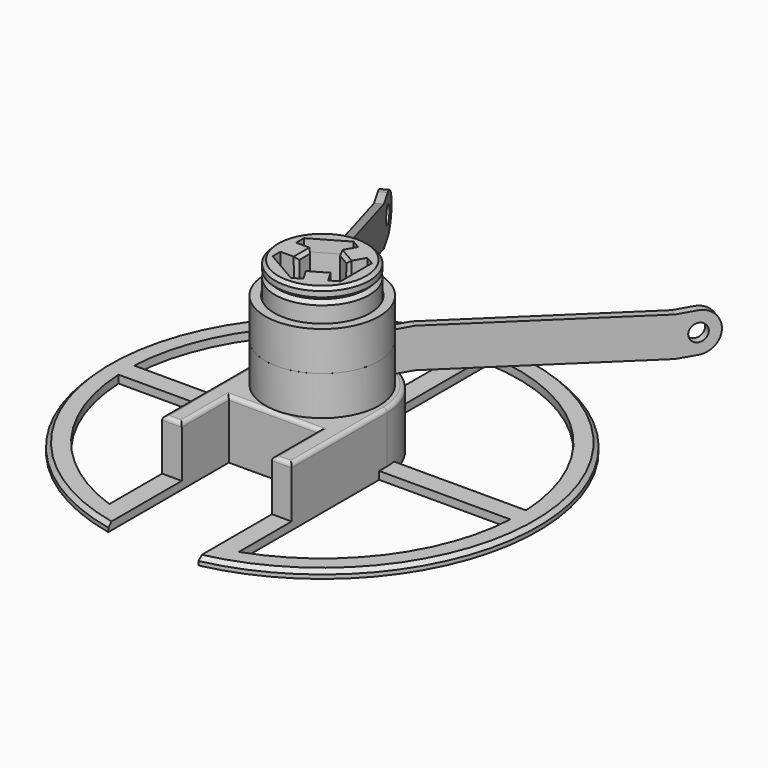
from build123d import *

# Parameters (mm, degrees)
PAD_DEPTH          = 15
SKETCH002_R        = 12
PAD001_DEPTH       = 25
POCKET_DEPTH       = 40.001
SKETCH004_R        = 2
POCKET001_DEPTH    = 10
PAD006_DEPTH       = 2
POCKET002_DEPTH    = 5
CHAMFER_SIZE       = 1
FILLET_R           = 1
CHAMFER005_SIZE    = 1
SKETCH005_R        = 14.5
SKETCH005_R_2      = 12.2
PAD002_DEPTH       = 10
SKETCH006_R        = 2.2
PAD003_DEPTH       = 1
CHAMFER002_SIZE    = 1
SKETCH007_R        = 14.5
SKETCH007_R_2      = 12.2
PAD005_DEPTH       = 10
SKETCH008_R        = 2.2
PAD004_DEPTH       = 1
CHAMFER004_SIZE    = 1
PAD007_DEPTH       = 2.5
SKETCH014_R        = 12
PAD008_DEPTH       = 3
POLARPATTERN_COUNT = 3
CHAMFER006_SIZE    = 0.8
CHAMFER007_SIZE    = 0.8


with BuildPart() as main_holder:
    # Sketch → Pad (new body)
    with BuildSketch(Plane.XY):
        with BuildLine():
            Line((-16.5, -30.3923048454), (-11.5, -30.3923048454))
            Line((-11.5, -30.3923048454), (-11.5, -15.3923048454))
            Line((-11.5, -15.3923048454), (11.5, -15.3923048454))
            Line((11.5, -15.3923048454), (11.5, -30.3923048454))
            Line((11.5, -30.3923048454), (16.5, -30.3923048454))
            Line((16.5, -30.3923048454), (16.5, 0))
            ThreePointArc((16.5, 0), (0, 16.5), (-16.5, 0))
            Line((-16.5, -30.3923048454), (-16.5, 0))
        make_face()
    extrude(amount=PAD_DEPTH)

    # Sketch002 (on Face10 of Pad) → Pad001 (join)
    with BuildSketch(Plane.XY.offset(15)):
        Circle(SKETCH002_R)
    extrude(amount=PAD001_DEPTH)

    # Sketch003 (on Face12 of Pad001) → Pocket (cut, through all)
    with BuildSketch(Plane.XY.offset(40)):
        Polygon((0, -10), (8.6602540378, -5), (8.6602540378, 5), (0, 10), (-8.6602540378, 5), (-8.6602540378, -5), align=None)
    extrude(amount=-POCKET_DEPTH, mode=Mode.SUBTRACT)

    # Sketch004 (on DatumPlane) → Pocket001 (cut)
    with BuildSketch(Plane(origin=(0, 12.6076951546, -5), x_dir=(1, 0, 0), z_dir=(0, -1, 0))):
        with Locations((0, 12.5)):
            Circle(SKETCH004_R)
    extrude(amount=-POCKET001_DEPTH, mode=Mode.SUBTRACT)

    # Sketch009 → Pad006 (join)
    with BuildSketch(Plane.XY):
        with BuildLine():
            ThreePointArc((11.5, -53.784291387), (0, 55), (-11.5, -53.784291387))
            Line((-11.5, -30.3923048454), (-11.5, -53.784291387))
            Line((-16.5, -30.3923048454), (-11.5, -30.3923048454))
            Line((-16.5, -30.3923048454), (-16.5, -47.1990466005))
            ThreePointArc((-49.9374608886, -2.5), (-40.0372981616, -29.9502046056), (-16.5, -47.1990466005))
            Line((-16.5, -2.5), (-49.9374608886, -2.5))
            Line((-16.5, -2.5), (-16.5, 0))
            ThreePointArc((-16.3095064303, 2.5), (-16.4523076816, 1.253623528), (-16.5, 0))
            Line((-16.3095064303, 2.5), (-49.9374608886, 2.5))
            ThreePointArc((-2.5, 49.9374608886), (-35.3553390593, 35.3553390593), (-49.9374608886, 2.5))
            Line((-2.5, 16.3095064303), (-2.5, 49.9374608886))
            ThreePointArc((2.5, 16.3095064303), (0, 16.5), (-2.5, 16.3095064303))
            Line((2.5, 16.3095064303), (2.5, 49.9374608886))
            ThreePointArc((49.9374608886, 2.5), (35.3553390593, 35.3553390593), (2.5, 49.9374608886))
            Line((16.3095064303, 2.5), (49.9374608886, 2.5))
            ThreePointArc((16.5, 0), (16.4523076816, 1.253623528), (16.3095064303, 2.5))
            Line((16.5, -2.5), (16.5, 0))
            Line((16.5, -2.5), (49.9374608886, -2.5))
            ThreePointArc((16.5, -47.1990466005), (40.0372981616, -29.9502046056), (49.9374608886, -2.5))
            Line((16.5, -30.3923048454), (16.5, -47.1990466005))
            Line((11.5, -30.3923048454), (16.5, -30.3923048454))
            Line((11.5, -30.3923048454), (11.5, -53.784291387))
        make_face()
    extrude(amount=PAD006_DEPTH)

    # Sketch010 (on DatumPlane) → Pocket002 (cut)
    with BuildSketch(Plane(origin=(0, 12.6076951546, -5), x_dir=(1, 0, 0), z_dir=(0, -1, 0))):
        Polygon((0, 8.3430780618), (3.6, 10.4215390309), (3.6, 14.5784609691), (0, 16.6569219382), (-3.6, 14.5784609691), (-3.6, 10.4215390309), align=None)
    extrude(amount=POCKET002_DEPTH, mode=Mode.SUBTRACT)

    # Chamfer
    chamfer_edges = [main_holder.edges().sort_by_distance(p)[0] for p in [
        (-12, 0, 40),
    ]]
    chamfer(chamfer_edges, length=CHAMFER_SIZE)

    # Fillet
    fillet_edges = [main_holder.edges().sort_by_distance(p)[0] for p in [
        (-14, -30.392305, 15),
        (-16.5, -15.196152, 15),
        (-11.5, -22.892305, 15),
        (0, 16.5, 15),
        (0, -15.392305, 15),
        (16.5, -15.196152, 15),
        (11.5, -22.892305, 15),
        (14, -30.392305, 15),
        (-12, 0, 15),
    ]]
    fillet(fillet_edges, radius=FILLET_R)

    # Chamfer005
    chamfer005_edges = [main_holder.edges().sort_by_distance(p)[0] for p in [
        (0, 55, 2),
    ]]
    chamfer(chamfer005_edges, length=CHAMFER005_SIZE)


with BuildPart() as arm1:
    # Sketch005 → Pad002 (new body)
    with BuildSketch(Plane(origin=(0, 0, 13), x_dir=(0.5, 0.8660254038, 0), z_dir=(0, 0, 1))):
        Circle(SKETCH005_R)
        Circle(SKETCH005_R_2, mode=Mode.SUBTRACT)
    extrude(amount=PAD002_DEPTH)

    # Sketch006 (on DatumPlane) → Pad003 (join, symmetric)
    with BuildSketch(Plane(origin=(0, 0, 13), x_dir=(0.5, 0.8660254038, 0), z_dir=(0.8660254038, -0.5, 0))):
        with BuildLine():
            Line((14.5, 0), (19.5, 0))
            Line((19.5, 0), (75, -8))
            Line((80, -8), (75, -8))
            ThreePointArc((80, -8), (85, -3), (80, 2))
            Line((75, 2), (80, 2))
            Line((19.5, 10), (75, 2))
            Line((14.5, 10), (19.5, 10))
            Line((14.5, 10), (13.5, 10))
            Line((13.5, 10), (13.5, 0))
            Line((13.5, 0), (14.5, 0))
        make_face()
        with Locations((80, -3)):
            Circle(SKETCH006_R, mode=Mode.SUBTRACT)
    extrude(amount=PAD003_DEPTH, both=True)

    # Chamfer002
    chamfer002_edges = [arm1.edges().sort_by_distance(p)[0] for p in [
        (-6.1, -10.56551, 13),
        (6.1, 10.56551, 18),
    ]]
    chamfer(chamfer002_edges, length=CHAMFER002_SIZE)


with BuildPart() as arm1_1:
    # Body001 placement: moved
    add(arm1.part.moved(Location((0, 0, 2))))


with BuildPart() as arm002:
    # Sketch007 → Pad005 (new body)
    with BuildSketch(Plane(origin=(0, 0, 23), x_dir=(-0.5, 0.8660254038, 0), z_dir=(0, 0, 1))):
        Circle(SKETCH007_R)
        Circle(SKETCH007_R_2, mode=Mode.SUBTRACT)
    extrude(amount=PAD005_DEPTH)

    # Sketch008 (on DatumPlane) → Pad004 (join, symmetric)
    with BuildSketch(Plane(origin=(0, 0, 23), x_dir=(-0.5, 0.8660254038, 0), z_dir=(0.8660254038, 0.5, 0))):
        with BuildLine():
            Line((14.5, 0), (19.5, 0))
            Line((19.5, 0), (75, -18))
            Line((80, -18), (75, -18))
            ThreePointArc((80, -18), (85, -13), (80, -8))
            Line((75, -8), (80, -8))
            Line((19.5, 10), (75, -8))
            Line((14.5, 10), (19.5, 10))
            Line((14.5, 10), (13.5, 10))
            Line((13.5, 10), (13.5, 0))
            Line((13.5, 0), (14.5, 0))
        make_face()
        with Locations((80, -13)):
            Circle(SKETCH008_R, mode=Mode.SUBTRACT)
    extrude(amount=PAD004_DEPTH, both=True)

    # Chamfer004
    chamfer004_edges = [arm002.edges().sort_by_distance(p)[0] for p in [
        (6.1, -10.56551, 23),
        (-6.1, 10.56551, 28),
    ]]
    chamfer(chamfer004_edges, length=CHAMFER004_SIZE)


with BuildPart() as arm002_1:
    # Body002 placement: moved
    add(arm002.part.moved(Location((0, 0, 2))))


with BuildPart() as insert1:
    # Sketch013 → Pad007 (new body, symmetric)
    with BuildSketch(Plane.XZ):
        with BuildLine():
            Line((-10.2, 43), (-4.5, 43))
            Line((-4.5, 43), (-4, 10.1959788753))
            ThreePointArc((-4.6899810781, 4), (-4.1493355332, 7.076201395), (-4, 10.1959788753))
            Line((-8.5, 4), (-4.6899810781, 4))
            Line((-10.2, 43), (-8.5, 4))
        make_face()
    pad007 = extrude(amount=PAD007_DEPTH, both=True)

    # Sketch014 (on DatumPlane) → Pad008 (join)
    with BuildSketch(Plane.XY.offset(40)):
        Circle(SKETCH014_R)
        Polygon((8.6602540379, -5), (8.6602540379, 5), (0, 10), (-8.6602540378, 5), (-8.6602540378, -5), (0, -10), align=None, mode=Mode.SUBTRACT)
    pad008 = extrude(amount=PAD008_DEPTH)

    # PolarPattern: Pad008, Pad007 ×3 about axis
    polarpattern_axis = Axis((0, 0, 40), (0, 0, 1))
    for i in range(1, POLARPATTERN_COUNT):
        add(pad008.rotate(polarpattern_axis, i * 360 / POLARPATTERN_COUNT))
        add(pad007.rotate(polarpattern_axis, i * 360 / POLARPATTERN_COUNT))

    # Chamfer006
    chamfer006_edges = [insert1.edges().sort_by_distance(p)[0] for p in [
        (-12, 0, 43),
        (6, 10.392305, 43),
        (6, -10.392305, 43),
        (-12, 0, 40),
        (6, -10.392305, 40),
        (6, 10.392305, 40),
    ]]
    chamfer(chamfer006_edges, length=CHAMFER006_SIZE)

    # Chamfer007
    chamfer007_edges = [insert1.edges().sort_by_distance(p)[0] for p in [
        (2.25, -3.897114, 43),
        (2, -3.464102, 10.195979),
        (-0.040064, -4.930608, 26.597989),
        (4.290064, -2.430608, 26.597989),
        (2.344991, -4.061643, 4),
        (-0.090396, -4.84343, 7.076201),
        (4.239731, -2.34343, 7.076201),
        (-4.689981, 0, 4),
        (-4, 0, 10.195979),
        (-4.149336, 2.5, 7.076201),
        (-4.149336, -2.5, 7.076201),
        (-4.5, 0, 43),
        (-4.25, 2.5, 26.597989),
        (-4.25, -2.5, 26.597989),
        (2.25, 3.897114, 43),
        (2, 3.464102, 10.195979),
        (4.290064, 2.430608, 26.597989),
        (-0.040064, 4.930608, 26.597989),
        (2.344991, 4.061643, 4),
        (4.239731, 2.34343, 7.076201),
        (-0.090396, 4.84343, 7.076201),
    ]]
    chamfer(chamfer007_edges, length=CHAMFER007_SIZE)


solid = Compound([main_holder.part, arm1_1.part, arm002_1.part, insert1.part])
